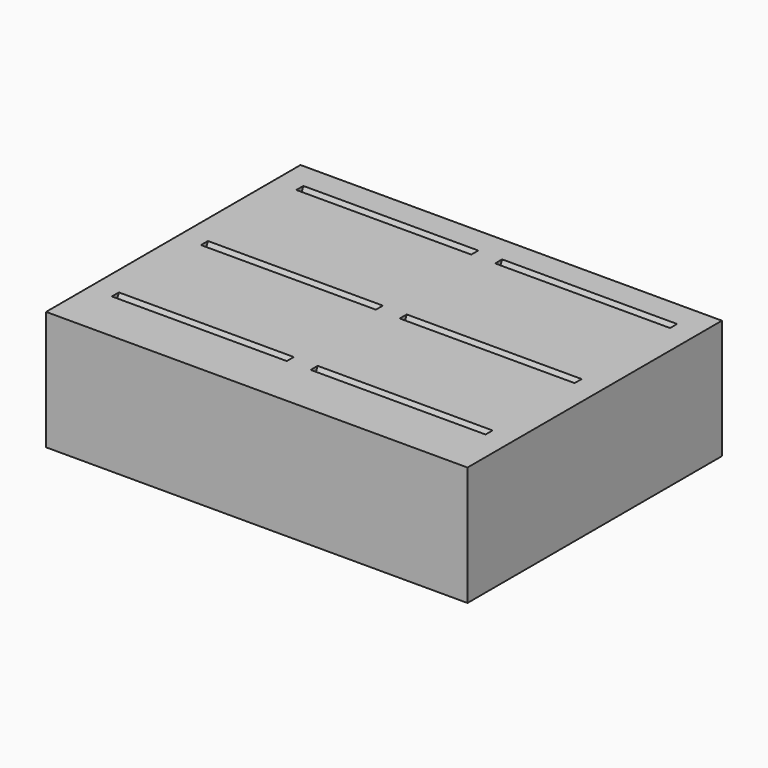
from build123d import *

# Parameters (mm, degrees)
BOX001_W               = 22
BOX001_H               = 1
BOX001_DEPTH           = 15
BOX001_PLACEMENT_ANGLE = 335
BOX003_W               = 22
BOX003_H               = 1
BOX003_DEPTH           = 15
BOX003_PLACEMENT_ANGLE = 335
BOX006_W               = 22
BOX006_H               = 1
BOX006_DEPTH           = 15
BOX006_PLACEMENT_ANGLE = 335
BOX002_W               = 22
BOX002_H               = 1
BOX002_DEPTH           = 15
BOX002_PLACEMENT_ANGLE = 335
BOX004_W               = 22
BOX004_H               = 1
BOX004_DEPTH           = 15
BOX004_PLACEMENT_ANGLE = 335
BOX005_W               = 22
BOX005_H               = 1
BOX005_DEPTH           = 15
BOX005_PLACEMENT_ANGLE = 335
BOX_W                  = 53
BOX_H                  = 40
BOX_DEPTH              = 15


with BuildPart() as cube001:
    # Box001 → Box001 (new body)
    with BuildSketch(Plane.XY):
        with Locations((11, 0.5)):
            Rectangle(BOX001_W, BOX001_H)
    extrude(amount=BOX001_DEPTH)


with BuildPart() as cube001_1:
    # Box001 placement: moved
    add(cube001.part.moved(Location((3, 15, 3))).rotate(Axis((3, 15, 3), (1, 0, 0)), BOX001_PLACEMENT_ANGLE))


with BuildPart() as cube003:
    # Box003 → Box003 (new body)
    with BuildSketch(Plane.XY):
        with Locations((11, 0.5)):
            Rectangle(BOX003_W, BOX003_H)
    extrude(amount=BOX003_DEPTH)


with BuildPart() as cube003_1:
    # Box003 placement: moved
    add(cube003.part.moved(Location((3, 30, 3))).rotate(Axis((3, 30, 3), (1, 0, 0)), BOX003_PLACEMENT_ANGLE))


with BuildPart() as cube006:
    # Box006 → Box006 (new body)
    with BuildSketch(Plane.XY):
        with Locations((11, 0.5)):
            Rectangle(BOX006_W, BOX006_H)
    extrude(amount=BOX006_DEPTH)


with BuildPart() as cube006_1:
    # Box006 placement: moved
    add(cube006.part.moved(Location((28, 1, 3))).rotate(Axis((28, 1, 3), (1, 0, 0)), BOX006_PLACEMENT_ANGLE))


with BuildPart() as cube002:
    # Box002 → Box002 (new body)
    with BuildSketch(Plane.XY):
        with Locations((11, 0.5)):
            Rectangle(BOX002_W, BOX002_H)
    extrude(amount=BOX002_DEPTH)


with BuildPart() as cube002_1:
    # Box002 placement: moved
    add(cube002.part.moved(Location((28, 15, 3))).rotate(Axis((28, 15, 3), (1, 0, 0)), BOX002_PLACEMENT_ANGLE))


with BuildPart() as cube004:
    # Box004 → Box004 (new body)
    with BuildSketch(Plane.XY):
        with Locations((11, 0.5)):
            Rectangle(BOX004_W, BOX004_H)
    extrude(amount=BOX004_DEPTH)


with BuildPart() as cube004_1:
    # Box004 placement: moved
    add(cube004.part.moved(Location((28, 30, 3))).rotate(Axis((28, 30, 3), (1, 0, 0)), BOX004_PLACEMENT_ANGLE))


with BuildPart() as fusion:
    # Box005 → Box005 (new body)
    with BuildSketch(Plane.XY):
        with Locations((11, 0.5)):
            Rectangle(BOX005_W, BOX005_H)
    extrude(amount=BOX005_DEPTH)


with BuildPart() as fusion_1:
    # Box005 placement: moved
    add(fusion.part.moved(Location((3, 1, 3))).rotate(Axis((3, 1, 3), (1, 0, 0)), BOX005_PLACEMENT_ANGLE))

    # Fusion: union Cube001, Cube003, Cube006, Cube002, Cube004
    add(cube001_1.part)
    add(cube003_1.part)
    add(cube006_1.part)
    add(cube002_1.part)
    add(cube004_1.part)


with BuildPart() as cut:
    # Box → Box (new body)
    with BuildSketch(Plane.XY):
        with Locations((26.5, 20)):
            Rectangle(BOX_W, BOX_H)
    extrude(amount=BOX_DEPTH)

    # Cut: cut Fusion
    add(fusion_1.part, mode=Mode.SUBTRACT)


solid = cut.part
